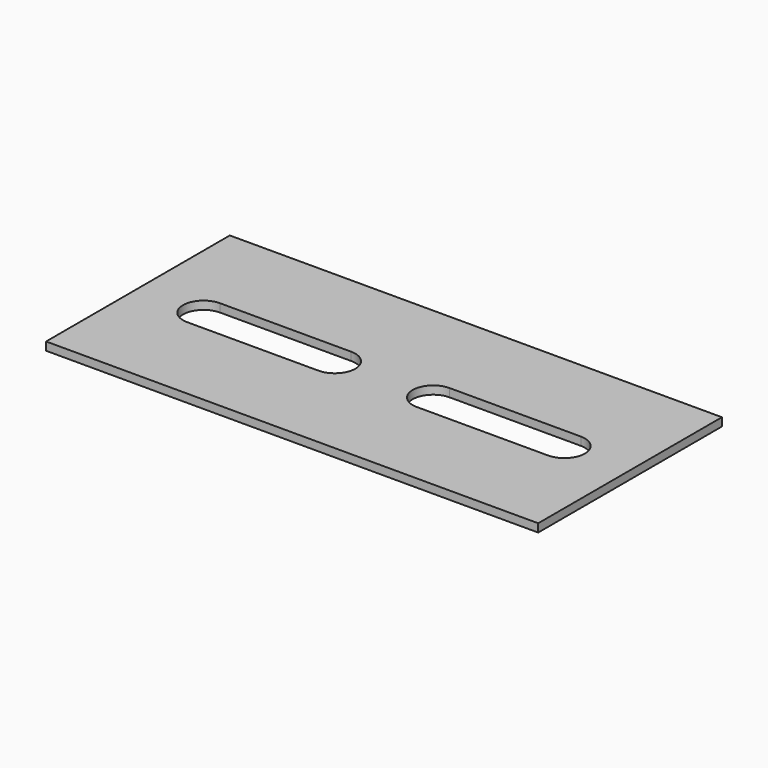
from build123d import *

# Parameters (mm, degrees)
F0_W     = 60
F0_H     = 28
F1_DEPTH = 1


with BuildPart() as f1:
    # F0 (on Top) → F1 (new body)
    with BuildSketch(Plane.XY):
        Rectangle(F0_W, F0_H)
        with BuildLine():
            ThreePointArc((-6, 2.5), (-3.5, 0), (-6, -2.5))
            Line((-6, -2.5), (-22, -2.5))
            ThreePointArc((-22, -2.5), (-24.5, 0), (-22, 2.5))
            Line((-22, 2.5), (-6, 2.5))
        make_face(mode=Mode.SUBTRACT)
        with BuildLine():
            ThreePointArc((6, -2.5), (3.5, 0), (6, 2.5))
            Line((6, 2.5), (22, 2.5))
            ThreePointArc((22, 2.5), (24.5, 0), (22, -2.5))
            Line((22, -2.5), (6, -2.5))
        make_face(mode=Mode.SUBTRACT)
    extrude(amount=F1_DEPTH)


solid = f1.part
